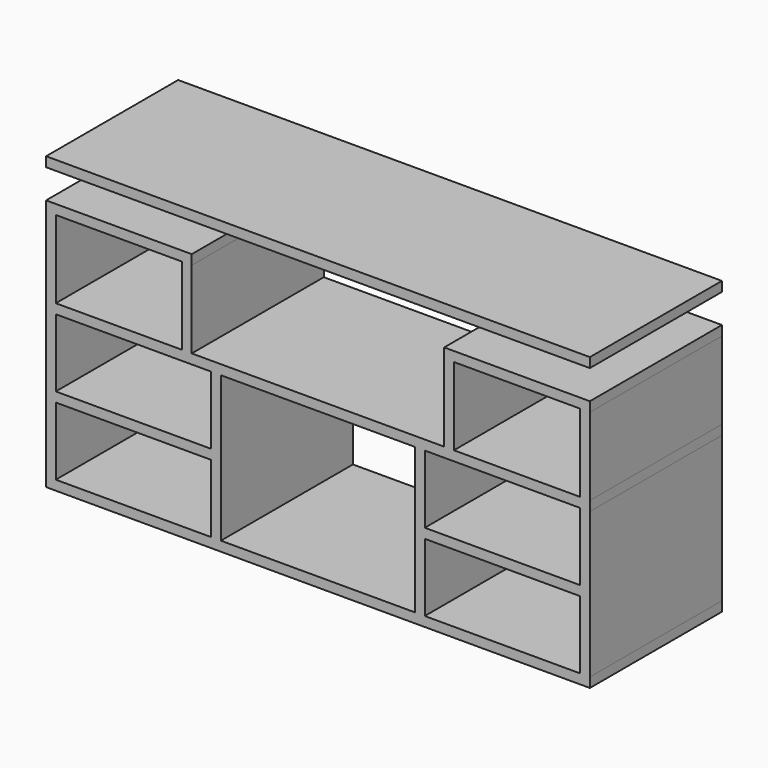
from build123d import *

# Parameters (mm, degrees)
F0_W     = 406.4
F0_H     = 25.4
F0_W_2   = 1422.4
F1_DEPTH = 431.8


with BuildPart() as f1:
    # F0 (on Front) → F1 (new body)
    with BuildSketch(Plane.XZ):
        Polygon((-521.913902, 81.722848), (-521.913902, 56.347806), (-496.513902, 56.347806), (-90.113902, 56.347806), (-64.713902, 56.347806), (443.286095, 56.347806), (468.686095, 56.347806), (875.086095, 56.347806), (900.486095, 56.347806), (900.486095, 81.747806), (875.086095, 81.749262), (544.886095, 81.768189), (519.486095, 81.769645), (-140.913905, 81.769645), (-166.313905, 81.766525), (-496.513902, 81.725968), align=None)
        Polygon((-521.913902, 310.325968), (-521.913902, 284.925968), (-496.513902, 284.925968), (-166.313902, 284.925968), (-140.913902, 284.925968), (-140.913902, 310.325968), align=None)
        Polygon((875.086094, 284.947806), (900.486094, 284.947806), (900.486094, 310.347806), (519.486095, 310.347806), (519.486095, 284.947806), (544.886096, 284.947806), align=None)
        Polygon((-521.913902, 284.925968), (-521.913902, 81.722848), (-496.513902, 81.725968), (-496.513902, 284.925968), align=None)
        Polygon((875.086095, 81.749262), (900.486095, 81.747806), (900.486094, 284.947806), (875.086094, 284.947806), align=None)
        Polygon((-166.313902, 284.925968), (-166.313905, 81.766525), (-140.913905, 81.769645), (-140.913902, 284.925968), align=None)
        Polygon((519.486095, 81.769645), (544.886095, 81.768189), (544.886096, 284.947806), (519.486095, 284.947806), align=None)
        Polygon((875.086098, -324.652194), (900.486098, -324.652194), (900.486095, 56.347806), (875.086095, 56.347806), (875.086097, -121.452194), (875.086097, -146.852194), align=None)
        Polygon((-521.913902, -324.652194), (-521.913902, -350.052194), (900.486098, -350.052194), (900.486098, -324.652194), (875.086098, -324.652194), (468.686098, -324.652194), (443.286098, -324.652194), (-64.713902, -324.652194), (-90.113902, -324.652194), (-496.513902, -324.652194), align=None)
        Polygon((443.286098, -324.652194), (468.686098, -324.652194), (468.686097, -146.852194), (468.686097, -121.452194), (468.686095, 56.347806), (443.286095, 56.347806), align=None)
        with Locations((671.886097, -134.152194)):
            Rectangle(F0_W, F0_H)
        Polygon((-521.913902, 56.347806), (-521.913902, -324.652194), (-496.513902, -324.652194), (-496.513902, -146.852194), (-496.513902, -121.452194), (-496.513902, 56.347806), align=None)
        with Locations((-293.313902, -134.152194)):
            Rectangle(F0_W, F0_H)
        with Locations((189.286098, 399.247806)):
            Rectangle(F0_W_2, F0_H)
        Polygon((-90.113902, -146.852194), (-90.113902, -324.652194), (-64.713902, -324.652194), (-64.713902, 56.347806), (-90.113902, 56.347806), (-90.113902, -121.452194), align=None)
    extrude(amount=F1_DEPTH)


solid = f1.part
